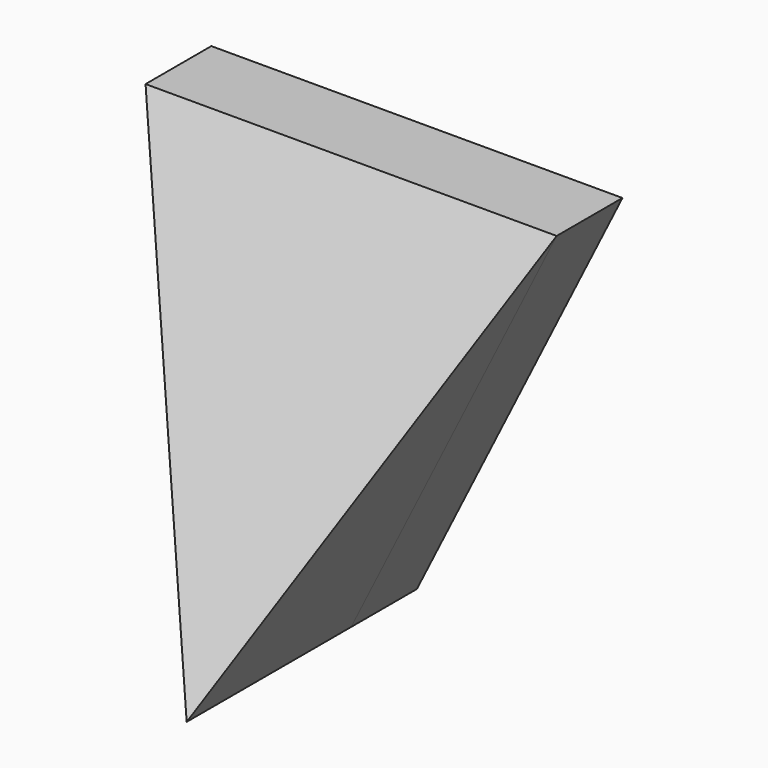
from build123d import *

# Parameters (mm, degrees)
F2_DEPTH = 2
F3_DEPTH = 10
F4_DEPTH = 10.001


with BuildPart() as f2:
    # F0 (on Front) → F2 (new body)
    with BuildSketch(Plane.XZ):
        Polygon((5, 0), (0, 0), (5, -10), (10, 0), align=None)
        Polygon((1.6180339887, -1), (5, -1), (8.3819660113, -1), (5, -7.7639320225), align=None, mode=Mode.SUBTRACT)
        Polygon((8.3819660113, -1), (5, -1), (1.6180339887, -1), (5, -7.7639320225), align=None)
    extrude(amount=-F2_DEPTH)


with BuildPart() as f3:
    # F0 (on Front) → F3 (new body)
    with BuildSketch(Plane.XZ):
        Polygon((5, 0), (0, 0), (5, -10), (10, 0), align=None)
        Polygon((1.6180339887, -1), (5, -1), (8.3819660113, -1), (5, -7.7639320225), align=None, mode=Mode.SUBTRACT)
        Polygon((8.3819660113, -1), (5, -1), (1.6180339887, -1), (5, -7.7639320225), align=None)
    extrude(amount=F3_DEPTH)

    # F1 (on Right) → F4 (cut, through all)
    with BuildSketch(Plane.YZ):
        Polygon((-4.9999888349, -10), (0, 0), (-20.0761053711, 0), (-20.0761053711, -10), (-15, -10), align=None)
    extrude(amount=F4_DEPTH, mode=Mode.SUBTRACT)


solid = Compound([f2.part, f3.part])
